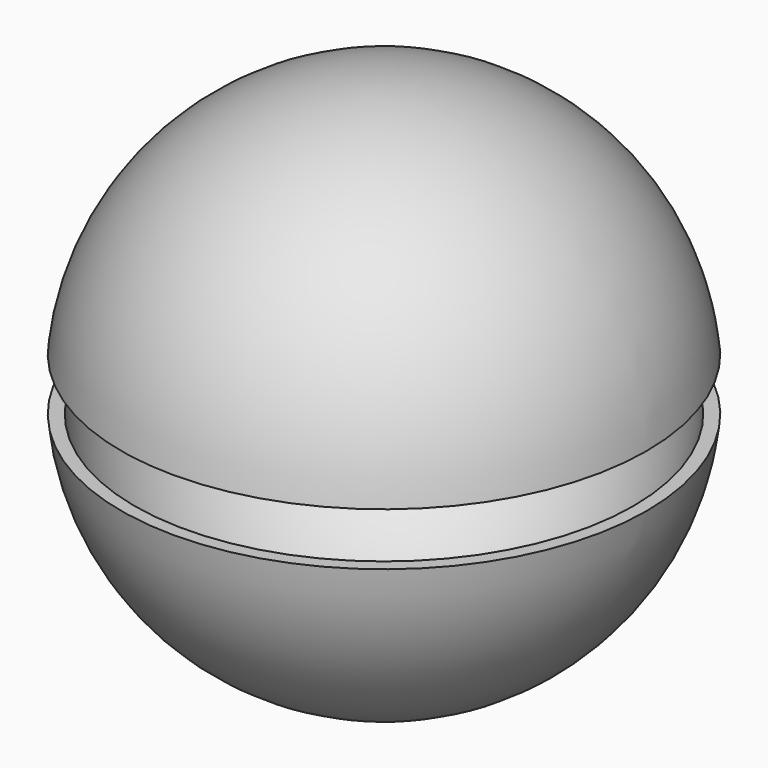
from build123d import *

# Parameters (mm, degrees)
F3_T   = -2.5
F3_2_T = -2.5


with BuildPart() as f2:
    # F1 (on Front) → F2 (revolve)
    with BuildSketch(Plane.XZ):
        with BuildLine():
            ThreePointArc((49.7493718553, 5), (33.5410196625, 37.0809924355), (0, 50))
            Line((0, 50), (0, 5))
            Line((0, 5), (49.7493718553, 5))
        make_face()
    revolve(axis=Axis((0, 0, 27.5), (0, 0, -1)))

    # F3
    f3_openings = [f2.faces().sort_by_distance(p)[0] for p in [
        (0, 0, 5),
    ]]
    offset(amount=F3_T, openings=f3_openings)


with BuildPart() as f2b:
    # F1 (on Front) → F2, piece 2 (revolve)
    with BuildSketch(Plane.XZ):
        with BuildLine():
            Line((0, -5), (0, -50))
            ThreePointArc((0, -50), (33.5410196625, -37.0809924355), (49.7493718553, -5))
            Line((49.7493718553, -5), (0, -5))
        make_face()
    revolve(axis=Axis((0, 0, 27.5), (0, 0, -1)))

    # F3#2
    f3_2_openings = [f2b.faces().sort_by_distance(p)[0] for p in [
        (0, 0, -5),
    ]]
    offset(amount=F3_2_T, openings=f3_2_openings)


solid = Compound([f2.part, f2b.part])
